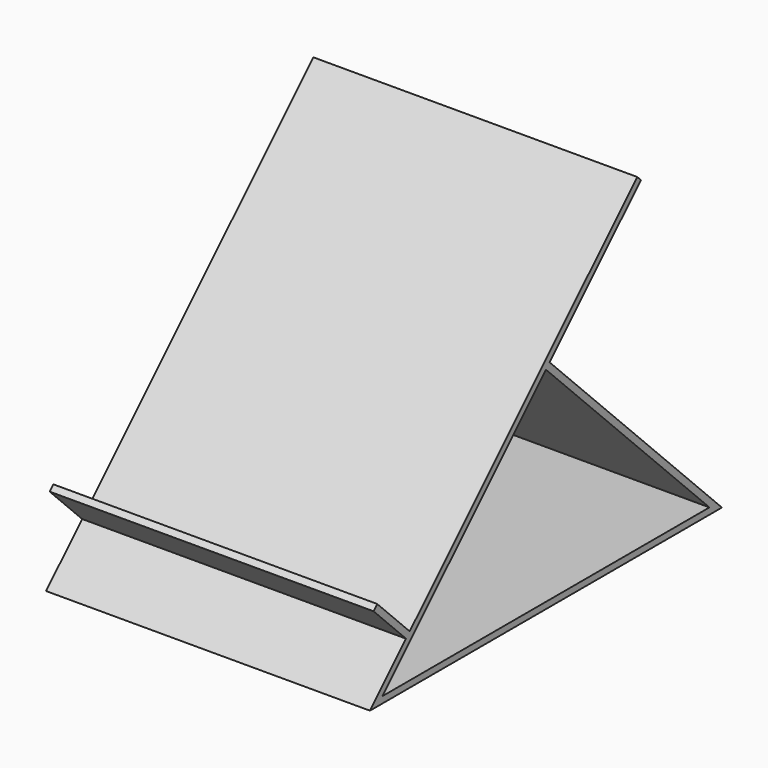
from build123d import *

# Parameters (mm, degrees)
F1_DEPTH = 25


with BuildPart() as f1:
    # F0 (on Right) → F1 (new body, symmetric)
    with BuildSketch(Plane.YZ):
        Polygon((-26.998525, 6.460627), (-33.959152, -0.5), (33.959152, -0.5), (0.707107, 32.752045), (18.321796, 50.366735), (17.61469, 51.073841), (-26.291418, 7.167734), (-32.56589, 13.442206), (-33.272997, 12.735099), align=None)
        Polygon((31.544938, 0.5), (-31.544938, 0.5), (0, 32.044938), align=None, mode=Mode.SUBTRACT)
    extrude(amount=F1_DEPTH, both=True)


solid = f1.part
